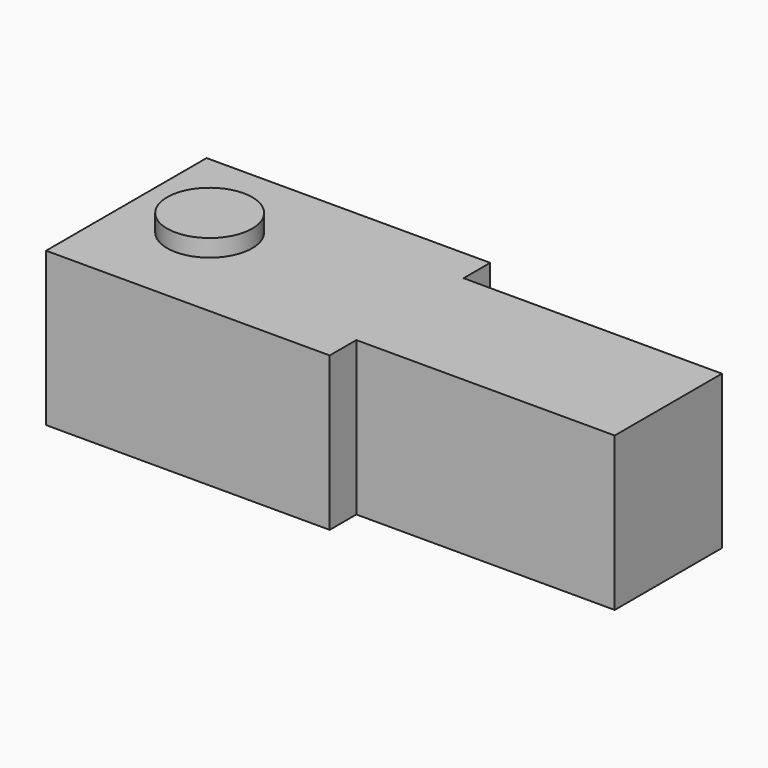
from build123d import *

# Parameters (mm, degrees)
SKETCH_R      = 12.3
EXTRUDE_DEPTH = 5
BOX001_W      = 82
BOX001_H      = 58
BOX001_DEPTH  = 44.4
BOX_W         = 74.7
BOX_H         = 38.74
BOX_DEPTH     = 44.4


with BuildPart() as extrude_body:
    # Sketch (on Face6 of Box001) → Extrude (new body)
    with BuildSketch(Plane(origin=(-82, -9.63, 44.4), x_dir=(1, 0, 0), z_dir=(0, 0, 1))):
        with Locations((23.3, 30)):
            Circle(SKETCH_R)
    extrude(amount=EXTRUDE_DEPTH)


with BuildPart() as cube001:
    # Box001 → Box001 (new body)
    with BuildSketch(Plane(origin=(-82, -9.63, 0), x_dir=(1, 0, 0), z_dir=(0, 0, 1))):
        with Locations((41, 29)):
            Rectangle(BOX001_W, BOX001_H)
    extrude(amount=BOX001_DEPTH)


with BuildPart() as fusion002:
    # Box → Box (new body)
    with BuildSketch(Plane.XY):
        with Locations((37.35, 19.37)):
            Rectangle(BOX_W, BOX_H)
    extrude(amount=BOX_DEPTH)

    # Fusion: union Cube001
    add(cube001.part)

    # Fusion002: union Extrude body
    add(extrude_body.part)


solid = fusion002.part
